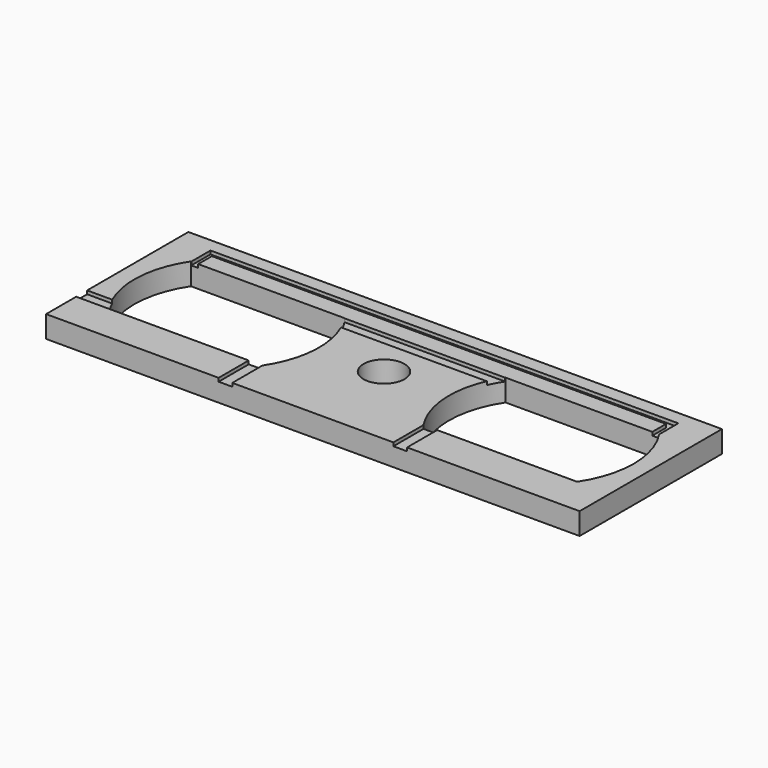
from build123d import *

# Parameters (mm, degrees)
F0_W     = 39
F0_H     = 13
F1_DEPTH = 1.6
F2_W     = 1
F2_H     = 2.75
F3_DEPTH = 0.25
F4_R     = 1.5
F5_DEPTH = 1.601


with BuildPart() as f1:
    # F0 (on Top) → F1 (new body)
    with BuildSketch(Plane.XY):
        Rectangle(F0_W, F0_H)
        with BuildLine():
            ThreePointArc((-5.8875139198, 3.75), (-4.75, 0), (-5.8875139198, -3.75))
            Line((-5.8875139198, -3.75), (-17.1124860802, -3.75))
            ThreePointArc((-17.1124860802, -3.75), (-18.25, 0), (-17.1124860802, 3.75))
            Line((-17.1124860802, 3.75), (-5.8875139198, 3.75))
        make_face(mode=Mode.SUBTRACT)
        with BuildLine():
            ThreePointArc((5.8875139198, -3.75), (4.75, 0), (5.8875139198, 3.75))
            Line((5.8875139198, 3.75), (17.1124860802, 3.75))
            ThreePointArc((17.1124860802, 3.75), (18.25, 0), (17.1124860802, -3.75))
            Line((17.1124860802, -3.75), (5.8875139198, -3.75))
        make_face(mode=Mode.SUBTRACT)
    extrude(amount=F1_DEPTH)

    # F2 (on face) → F3 (cut)
    with BuildSketch(Plane.XY.offset(1.6)):
        Polygon((-17.0829144429, 5.5), (-17.0829144429, 3.75), (-16.5829144429, 3.75), (-16.5829144429, 5), (16.6124860802, 5), (16.6124860802, 3.75), (17.1124860802, 3.75), (17.1124860802, 5.5), align=None)
        with BuildLine():
            ThreePointArc((-5.8752075463, 3.7315157581), (-5.580137224, 3.2431041787), (-5.3273731959, 2.7315157581))
            Line((-5.3273731959, 2.7315157581), (5.3273731959, 2.7315157581))
            ThreePointArc((5.3273731959, 2.7315157581), (5.580137224, 3.2431041787), (5.8752075463, 3.7315157581))
            Line((5.8752075463, 3.7315157581), (-5.8752075463, 3.7315157581))
        make_face()
        with Locations((-6.3875139198, -5.125)):
            Rectangle(F2_W, F2_H)
        with BuildLine():
            Line((-19.5, -2.75), (-19.5, -3.75))
            Line((-19.5, -3.75), (-17.1124860802, -3.75))
            ThreePointArc((-17.1124860802, -3.75), (-17.4096399122, -3.2616952813), (-17.664414003, -2.75))
            Line((-17.664414003, -2.75), (-19.5, -2.75))
        make_face()
        with Locations((6.3875139198, -5.125)):
            Rectangle(F2_W, F2_H)
    extrude(amount=-F3_DEPTH, mode=Mode.SUBTRACT)

    # F4 (on face) → F5 (cut, through all)
    with BuildSketch(Plane.XY.offset(1.6)):
        Circle(F4_R)
    extrude(amount=-F5_DEPTH, mode=Mode.SUBTRACT)


solid = f1.part
